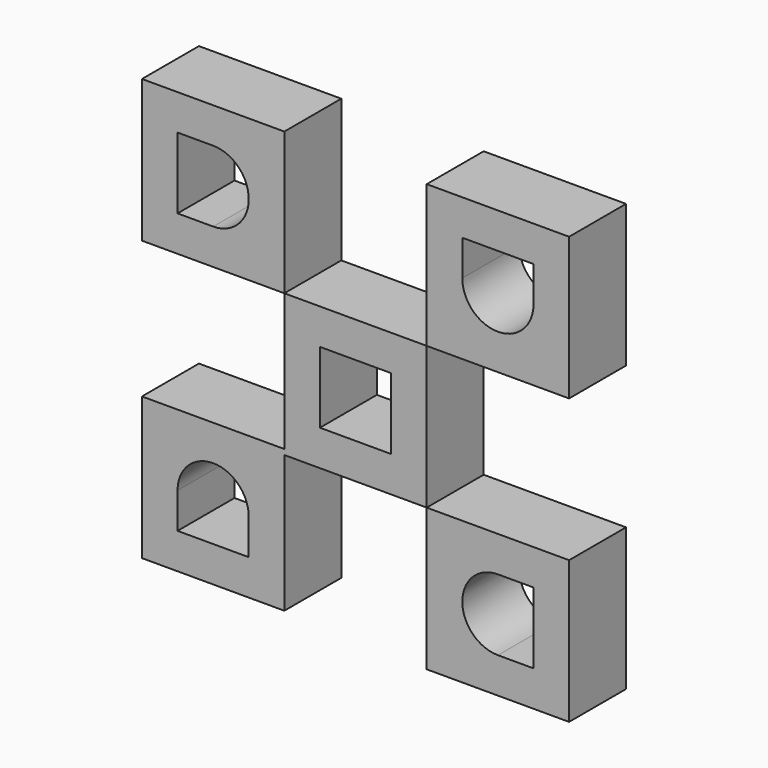
from build123d import *

# Parameters (mm, degrees)
F0_W     = 50.8
F0_H     = 50.8
F0_W_2   = 25.4
F0_H_2   = 25.4
F1_DEPTH = 25.4
F2_DEPTH = 25.4


with BuildPart() as f1:
    # F0 (on Front) → F1 (new body)
    with BuildSketch(Plane.XZ):
        with Locations((-25.4, 28.201944)):
            Rectangle(F0_W, F0_H)
        with BuildLine():
            Line((-25.4, 40.901944), (-12.7, 40.901944))
            Line((-12.7, 40.901944), (-12.7, 28.201944))
            ThreePointArc((-12.7, 28.201944), (-25.4, 15.501944), (-38.1, 28.201944))
            Line((-38.1, 28.201944), (-38.1, 40.901944))
            Line((-38.1, 40.901944), (-25.4, 40.901944))
        make_face(mode=Mode.SUBTRACT)
        with Locations((-25.4, -73.398056)):
            Rectangle(F0_W, F0_H)
        with BuildLine():
            Line((-25.4, -60.698056), (-12.7, -60.698056))
            Line((-12.7, -60.698056), (-12.7, -73.398056))
            Line((-12.7, -73.398056), (-12.7, -86.098056))
            Line((-12.7, -86.098056), (-25.4, -86.098056))
            ThreePointArc((-25.4, -86.098056), (-38.1, -73.398056), (-25.4, -60.698056))
        make_face(mode=Mode.SUBTRACT)
        with Locations((-127, 28.201944)):
            Rectangle(F0_W, F0_H)
        with BuildLine():
            Line((-139.7, 40.901944), (-127, 40.901944))
            ThreePointArc((-127, 40.901944), (-118.019744, 37.1822), (-114.3, 28.201944))
            ThreePointArc((-114.3, 28.201944), (-118.019744, 19.221688), (-127, 15.501944))
            Line((-127, 15.501944), (-139.7, 15.501944))
            Line((-139.7, 15.501944), (-139.7, 28.201944))
            Line((-139.7, 28.201944), (-139.7, 40.901944))
        make_face(mode=Mode.SUBTRACT)
        Polygon((-101.6, -47.998056), (-101.6, -46.11724), (-152.4, -46.11724), (-152.4, -96.91724), (-101.6, -96.91724), align=None)
        with BuildLine():
            Line((-114.3, -71.51724), (-114.3, -84.21724))
            Line((-114.3, -84.21724), (-127, -84.21724))
            Line((-127, -84.21724), (-139.7, -84.21724))
            Line((-139.7, -84.21724), (-139.7, -71.51724))
            ThreePointArc((-139.7, -71.51724), (-127, -58.81724), (-114.3, -71.51724))
        make_face(mode=Mode.SUBTRACT)
        Polygon((-50.8, -47.998056), (-50.8, 2.801944), (-101.6, 2.801944), (-101.6, -46.11724), (-101.6, -47.998056), align=None)
        with Locations((-76.2, -22.598056)):
            Rectangle(F0_W_2, F0_H_2, mode=Mode.SUBTRACT)
    extrude(amount=F1_DEPTH)


with BuildPart() as f2:
    # F0 (on Front) → F2 (new body)
    with BuildSketch(Plane.XZ):
        with Locations((-25.4, 28.201944)):
            Rectangle(F0_W, F0_H)
        with BuildLine():
            Line((-25.4, 40.901944), (-12.7, 40.901944))
            Line((-12.7, 40.901944), (-12.7, 28.201944))
            ThreePointArc((-12.7, 28.201944), (-25.4, 15.501944), (-38.1, 28.201944))
            Line((-38.1, 28.201944), (-38.1, 40.901944))
            Line((-38.1, 40.901944), (-25.4, 40.901944))
        make_face(mode=Mode.SUBTRACT)
        Polygon((-50.8, -47.998056), (-50.8, 2.801944), (-101.6, 2.801944), (-101.6, -46.11724), (-101.6, -47.998056), align=None)
        with Locations((-76.2, -22.598056)):
            Rectangle(F0_W_2, F0_H_2, mode=Mode.SUBTRACT)
        with Locations((-25.4, -73.398056)):
            Rectangle(F0_W, F0_H)
        with BuildLine():
            Line((-25.4, -60.698056), (-12.7, -60.698056))
            Line((-12.7, -60.698056), (-12.7, -73.398056))
            Line((-12.7, -73.398056), (-12.7, -86.098056))
            Line((-12.7, -86.098056), (-25.4, -86.098056))
            ThreePointArc((-25.4, -86.098056), (-38.1, -73.398056), (-25.4, -60.698056))
        make_face(mode=Mode.SUBTRACT)
        with Locations((-127, 28.201944)):
            Rectangle(F0_W, F0_H)
        with BuildLine():
            Line((-139.7, 40.901944), (-127, 40.901944))
            ThreePointArc((-127, 40.901944), (-118.019744, 37.1822), (-114.3, 28.201944))
            ThreePointArc((-114.3, 28.201944), (-118.019744, 19.221688), (-127, 15.501944))
            Line((-127, 15.501944), (-139.7, 15.501944))
            Line((-139.7, 15.501944), (-139.7, 28.201944))
            Line((-139.7, 28.201944), (-139.7, 40.901944))
        make_face(mode=Mode.SUBTRACT)
        Polygon((-101.6, -47.998056), (-101.6, -46.11724), (-152.4, -46.11724), (-152.4, -96.91724), (-101.6, -96.91724), align=None)
        with BuildLine():
            Line((-114.3, -71.51724), (-114.3, -84.21724))
            Line((-114.3, -84.21724), (-127, -84.21724))
            Line((-127, -84.21724), (-139.7, -84.21724))
            Line((-139.7, -84.21724), (-139.7, -71.51724))
            ThreePointArc((-139.7, -71.51724), (-127, -58.81724), (-114.3, -71.51724))
        make_face(mode=Mode.SUBTRACT)
    extrude(amount=F2_DEPTH)


solid = Compound([f1.part, f2.part])
